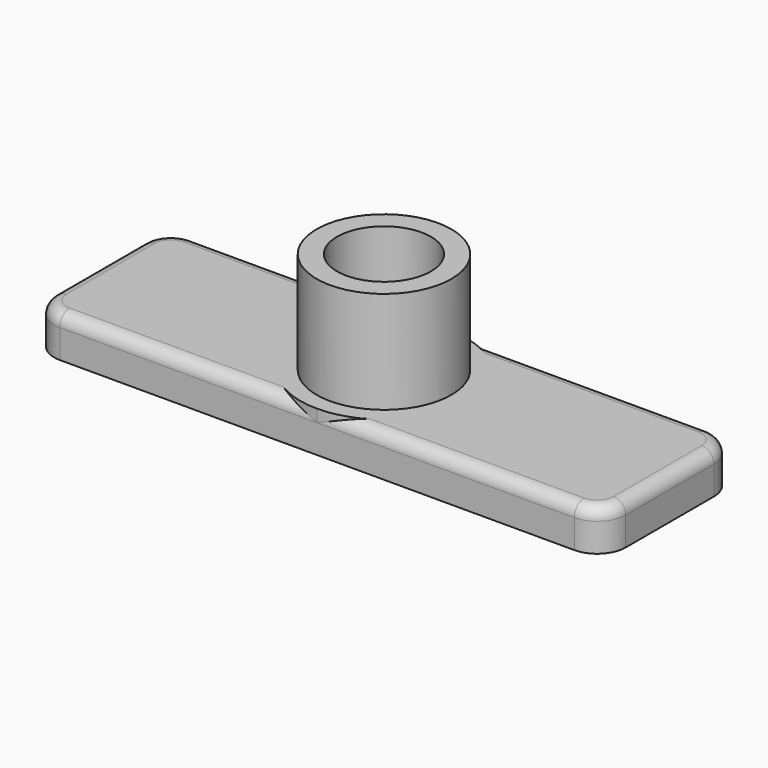
from build123d import *

# Parameters (mm, degrees)
F0_W      = 140
F0_H      = 41
F1_DEPTH  = 10
F3_R      = 16.5
F4_DEPTH  = 25
F5_R      = 11.5
F6_DEPTH  = 25
F8_R      = 7
F9_R      = 3
F11_DEPTH = 5


with BuildPart() as f1:
    # F0 (on Top) → F1 (new body)
    with BuildSketch(Plane.XY):
        with Locations((-23.8188230246, -17.8435179276)):
            Rectangle(F0_W, F0_H)
    extrude(amount=F1_DEPTH)

    # F3 (on face) → F4 (join)
    with BuildSketch(Plane.XY.offset(10)):
        with Locations((-23.8188230246, -17.8435179276)):
            Circle(F3_R)
    extrude(amount=F4_DEPTH)

    # F5 (on face) → F6 (cut)
    with BuildSketch(Plane.XY.offset(35)):
        with Locations((-23.8188230246, -17.8435179276)):
            Circle(F5_R)
    extrude(amount=-F6_DEPTH, mode=Mode.SUBTRACT)

    # F8
    f8_edges = [f1.edges().sort_by_distance(p)[0] for p in [
        (-93.818823, -38.343518, 5),
        (46.181177, -38.343518, 5),
        (46.181177, 2.656482, 5),
        (-93.818823, 2.656482, 5),
    ]]
    fillet(f8_edges, radius=F8_R)

    # F9
    f9_edges = [f1.edges().sort_by_distance(p)[0] for p in [
        (-23.818823, -38.343518, 10),
    ]]
    fillet(f9_edges, radius=F9_R)

    # F10 (on face) → F11 (join)
    with BuildSketch(Plane.XY.offset(10)):
        with BuildLine():
            ThreePointArc((-23.8188230779, -38.3435179276), (-9.3231340291, -32.3392069607), (-3.3188230246, -17.8435179276))
            ThreePointArc((-3.3188230246, -17.8435179276), (-9.3231340103, -3.3478289133), (-23.8188230246, 2.6564820724))
            ThreePointArc((-23.8188230246, 2.6564820724), (-44.3188230246, -17.843517901), (-23.8188230779, -38.3435179276))
        make_face()
    extrude(amount=-F11_DEPTH)


solid = f1.part
